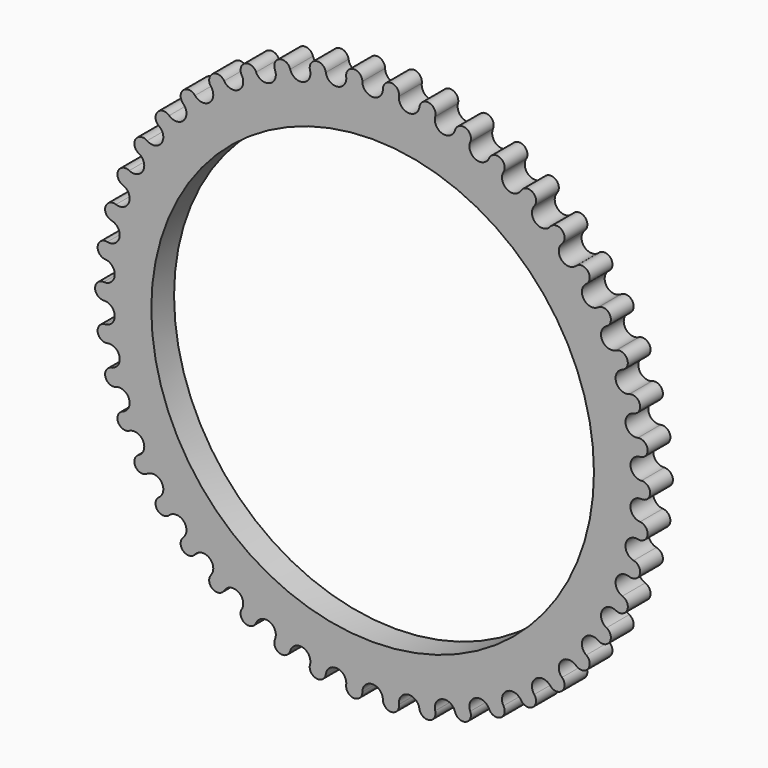
from build123d import *

# Parameters (mm, degrees)
F0_R     = 80
F0_R_2   = 70
F1_DEPTH = 9
F3_DEPTH = 25


with BuildPart() as f1:
    # F0 (on Front) → F1 (new body)
    with BuildSketch(Plane.XZ):
        with BuildLine():
            ThreePointArc((-3, -85), (0, -82), (3, -85))
            ThreePointArc((3, -85), (6.006204, -87.807599), (8.602107, -84.616805))
            ThreePointArc((8.602107, -84.616805), (11.165665, -81.236248), (14.546223, -83.799805))
            ThreePointArc((14.546223, -83.799805), (17.906729, -86.171909), (20.043974, -82.65736))
            ThreePointArc((20.043974, -82.65736), (22.123335, -78.959218), (25.821477, -81.038579))
            ThreePointArc((25.821477, -81.038579), (29.473685, -82.931), (31.112459, -79.158164))
            ThreePointArc((31.112459, -79.158164), (32.668889, -75.211327), (36.615727, -76.767757))
            ThreePointArc((36.615727, -76.767757), (40.491602, -78.145244), (41.601378, -74.184401))
            ThreePointArc((41.601378, -74.184401), (42.605884, -70.062391), (46.727894, -71.066898))
            ThreePointArc((46.727894, -71.066898), (50.755237, -71.903789), (51.315341, -67.828724))
            ThreePointArc((51.315341, -67.828724), (51.749211, -63.608326), (55.969609, -64.042196))
            ThreePointArc((55.969609, -64.042196), (60.073398, -64.322903), (60.073398, -60.209525))
            ThreePointArc((60.073398, -60.209525), (59.928549, -55.969358), (64.168716, -55.824509))
            ThreePointArc((64.168716, -55.824509), (68.272505, -55.543802), (67.7124, -51.468737))
            ThreePointArc((67.7124, -51.468737), (66.991531, -47.287786), (71.172482, -46.566918))
            ThreePointArc((71.172482, -46.566918), (75.199824, -45.730026), (74.090048, -41.769184))
            ThreePointArc((74.090048, -41.769184), (72.806588, -37.725333), (76.850439, -36.441873))
            ThreePointArc((76.850439, -36.441873), (80.726314, -35.064386), (79.08754, -31.29155))
            ThreePointArc((79.08754, -31.29155), (77.265396, -27.460128), (81.096817, -25.637984))
            ThreePointArc((81.096817, -25.637984), (84.749024, -23.745563), (82.611779, -20.231013))
            ThreePointArc((82.611779, -20.231013), (80.284895, -16.683393), (83.832515, -14.356509))
            ThreePointArc((83.832515, -14.356509), (87.193021, -11.984405), (84.597118, -8.793611))
            ThreePointArc((84.597118, -8.793611), (81.808839, -5.595878), (85.006573, -2.807599))
            ThreePointArc((85.006573, -2.807599), (88.012777, 0), (85.006573, 2.807599))
            ThreePointArc((85.006573, 2.807599), (81.808839, 5.595878), (84.597118, 8.793611))
            ThreePointArc((84.597118, 8.793611), (87.193021, 11.984405), (83.832515, 14.356509))
            ThreePointArc((83.832515, 14.356509), (80.284895, 16.683393), (82.611779, 20.231013))
            ThreePointArc((82.611779, 20.231013), (84.749024, 23.745563), (81.096817, 25.637984))
            ThreePointArc((81.096817, 25.637984), (77.265396, 27.460128), (79.08754, 31.29155))
            ThreePointArc((79.08754, 31.29155), (80.726314, 35.064386), (76.850439, 36.441873))
            ThreePointArc((76.850439, 36.441873), (72.806588, 37.725333), (74.090048, 41.769184))
            ThreePointArc((74.090048, 41.769184), (75.199824, 45.730026), (71.172482, 46.566918))
            ThreePointArc((71.172482, 46.566918), (66.991531, 47.287786), (67.7124, 51.468737))
            ThreePointArc((67.7124, 51.468737), (68.272505, 55.543802), (64.168716, 55.824509))
            ThreePointArc((64.168716, 55.824509), (59.928549, 55.969358), (60.073398, 60.209525))
            ThreePointArc((60.073398, 60.209525), (60.073398, 64.322903), (55.969609, 64.042196))
            ThreePointArc((55.969609, 64.042196), (51.749211, 63.608326), (51.315341, 67.828724))
            ThreePointArc((51.315341, 67.828724), (50.755237, 71.903789), (46.727894, 71.066898))
            ThreePointArc((46.727894, 71.066898), (42.605884, 70.062391), (41.601378, 74.184401))
            ThreePointArc((41.601378, 74.184401), (40.491602, 78.145244), (36.615727, 76.767757))
            ThreePointArc((36.615727, 76.767757), (32.668889, 75.211327), (31.112459, 79.158164))
            ThreePointArc((31.112459, 79.158164), (29.473685, 82.931), (25.821477, 81.038579))
            ThreePointArc((25.821477, 81.038579), (22.123335, 78.959218), (20.043974, 82.65736))
            ThreePointArc((20.043974, 82.65736), (17.906729, 86.171909), (14.546223, 83.799805))
            ThreePointArc((14.546223, 83.799805), (11.165665, 81.236248), (8.602107, 84.616805))
            ThreePointArc((8.602107, 84.616805), (6.006204, 87.807599), (3, 85))
            ThreePointArc((3, 85), (0, 82), (-3, 85))
            ThreePointArc((-3, 85), (-6.006204, 87.807599), (-8.602107, 84.616805))
            ThreePointArc((-8.602107, 84.616805), (-11.165665, 81.236248), (-14.546223, 83.799805))
            ThreePointArc((-14.546223, 83.799805), (-17.906729, 86.171909), (-20.043974, 82.65736))
            ThreePointArc((-20.043974, 82.65736), (-22.123335, 78.959218), (-25.821477, 81.038579))
            ThreePointArc((-25.821477, 81.038579), (-29.473685, 82.931), (-31.112459, 79.158164))
            ThreePointArc((-31.112459, 79.158164), (-32.668889, 75.211327), (-36.615727, 76.767757))
            ThreePointArc((-36.615727, 76.767757), (-40.491602, 78.145244), (-41.601378, 74.184401))
            ThreePointArc((-41.601378, 74.184401), (-42.605884, 70.062391), (-46.727894, 71.066898))
            ThreePointArc((-46.727894, 71.066898), (-50.755237, 71.903789), (-51.315341, 67.828724))
            ThreePointArc((-51.315341, 67.828724), (-51.749211, 63.608326), (-55.969609, 64.042196))
            ThreePointArc((-55.969609, 64.042196), (-60.073398, 64.322903), (-60.073398, 60.209525))
            ThreePointArc((-60.073398, 60.209525), (-59.928549, 55.969358), (-64.168716, 55.824509))
            ThreePointArc((-64.168716, 55.824509), (-68.272505, 55.543802), (-67.7124, 51.468737))
            ThreePointArc((-67.7124, 51.468737), (-66.991531, 47.287786), (-71.172482, 46.566918))
            ThreePointArc((-71.172482, 46.566918), (-75.199824, 45.730026), (-74.090048, 41.769184))
            ThreePointArc((-74.090048, 41.769184), (-72.806588, 37.725333), (-76.850439, 36.441873))
            ThreePointArc((-76.850439, 36.441873), (-80.726314, 35.064386), (-79.08754, 31.29155))
            ThreePointArc((-79.08754, 31.29155), (-77.265396, 27.460128), (-81.096817, 25.637984))
            ThreePointArc((-81.096817, 25.637984), (-84.749024, 23.745563), (-82.611779, 20.231013))
            ThreePointArc((-82.611779, 20.231013), (-80.284895, 16.683393), (-83.832515, 14.356509))
            ThreePointArc((-83.832515, 14.356509), (-87.193021, 11.984405), (-84.597118, 8.793611))
            ThreePointArc((-84.597118, 8.793611), (-81.808839, 5.595878), (-85.006573, 2.807599))
            ThreePointArc((-85.006573, 2.807599), (-88.012777, 0), (-85.006573, -2.807599))
            ThreePointArc((-85.006573, -2.807599), (-81.808839, -5.595878), (-84.597118, -8.793611))
            ThreePointArc((-84.597118, -8.793611), (-87.193021, -11.984405), (-83.832515, -14.356509))
            ThreePointArc((-83.832515, -14.356509), (-80.284895, -16.683393), (-82.611779, -20.231013))
            ThreePointArc((-82.611779, -20.231013), (-84.749024, -23.745563), (-81.096817, -25.637984))
            ThreePointArc((-81.096817, -25.637984), (-77.265396, -27.460128), (-79.08754, -31.29155))
            ThreePointArc((-79.08754, -31.29155), (-80.726314, -35.064386), (-76.850439, -36.441873))
            ThreePointArc((-76.850439, -36.441873), (-72.806588, -37.725333), (-74.090048, -41.769184))
            ThreePointArc((-74.090048, -41.769184), (-75.199824, -45.730026), (-71.172482, -46.566918))
            ThreePointArc((-71.172482, -46.566918), (-66.991531, -47.287786), (-67.7124, -51.468737))
            ThreePointArc((-67.7124, -51.468737), (-68.272505, -55.543802), (-64.168716, -55.824509))
            ThreePointArc((-64.168716, -55.824509), (-59.928549, -55.969358), (-60.073398, -60.209525))
            ThreePointArc((-60.073398, -60.209525), (-60.073398, -64.322903), (-55.969609, -64.042196))
            ThreePointArc((-55.969609, -64.042196), (-51.749211, -63.608326), (-51.315341, -67.828724))
            ThreePointArc((-51.315341, -67.828724), (-50.755237, -71.903789), (-46.727894, -71.066898))
            ThreePointArc((-46.727894, -71.066898), (-42.605884, -70.062391), (-41.601378, -74.184401))
            ThreePointArc((-41.601378, -74.184401), (-40.491602, -78.145244), (-36.615727, -76.767757))
            ThreePointArc((-36.615727, -76.767757), (-32.668889, -75.211327), (-31.112459, -79.158164))
            ThreePointArc((-31.112459, -79.158164), (-29.473685, -82.931), (-25.821477, -81.038579))
            ThreePointArc((-25.821477, -81.038579), (-22.123335, -78.959218), (-20.043974, -82.65736))
            ThreePointArc((-20.043974, -82.65736), (-17.906729, -86.171909), (-14.546223, -83.799805))
            ThreePointArc((-14.546223, -83.799805), (-11.165665, -81.236248), (-8.602107, -84.616805))
            ThreePointArc((-8.602107, -84.616805), (-6.006204, -87.807599), (-3, -85))
        make_face()
        Circle(F0_R, mode=Mode.SUBTRACT)
        Circle(F0_R)
        Circle(F0_R_2, mode=Mode.SUBTRACT)
    extrude(amount=F1_DEPTH)

    # F2 (on face) → F3 (cut)
    with BuildSketch(Plane.XZ.offset(9)):
        with BuildLine():
            ThreePointArc((-51.315341, 67.828724), (-51.749211, 63.608326), (-55.969609, 64.042196))
            ThreePointArc((-55.969609, 64.042196), (-60.073398, 64.322903), (-60.073398, 60.209525))
            ThreePointArc((-60.073398, 60.209525), (-59.928549, 55.969358), (-64.168716, 55.824509))
            ThreePointArc((-64.168716, 55.824509), (-68.272505, 55.543802), (-67.7124, 51.468737))
            ThreePointArc((-67.7124, 51.468737), (-66.991531, 47.287786), (-71.172482, 46.566918))
            ThreePointArc((-71.172482, 46.566918), (-75.199824, 45.730026), (-74.090048, 41.769184))
            ThreePointArc((-74.090048, 41.769184), (-72.806588, 37.725333), (-76.850439, 36.441873))
            ThreePointArc((-76.850439, 36.441873), (-80.726314, 35.064386), (-79.08754, 31.29155))
            ThreePointArc((-79.08754, 31.29155), (-77.265396, 27.460128), (-81.096817, 25.637984))
            ThreePointArc((-81.096817, 25.637984), (-84.749024, 23.745563), (-82.611779, 20.231013))
            ThreePointArc((-82.611779, 20.231013), (-80.284895, 16.683393), (-83.832515, 14.356509))
            ThreePointArc((-83.832515, 14.356509), (-87.193021, 11.984405), (-84.597118, 8.793611))
            ThreePointArc((-84.597118, 8.793611), (-81.808839, 5.595878), (-85.006573, 2.807599))
            ThreePointArc((-85.006573, 2.807599), (-88.012777, 0), (-85.006573, -2.807599))
            ThreePointArc((-85.006573, -2.807599), (-81.808839, -5.595878), (-84.597118, -8.793611))
            ThreePointArc((-84.597118, -8.793611), (-87.193021, -11.984405), (-83.832515, -14.356509))
            ThreePointArc((-83.832515, -14.356509), (-80.284895, -16.683393), (-82.611779, -20.231013))
            ThreePointArc((-82.611779, -20.231013), (-84.749024, -23.745563), (-81.096817, -25.637984))
            ThreePointArc((-81.096817, -25.637984), (-77.265396, -27.460128), (-79.08754, -31.29155))
            ThreePointArc((-79.08754, -31.29155), (-80.726314, -35.064386), (-76.850439, -36.441873))
            ThreePointArc((-76.850439, -36.441873), (-72.806588, -37.725333), (-74.090048, -41.769184))
            ThreePointArc((-74.090048, -41.769184), (-75.199824, -45.730026), (-71.172482, -46.566918))
            ThreePointArc((-71.172482, -46.566918), (-66.991531, -47.287786), (-67.7124, -51.468737))
            ThreePointArc((-67.7124, -51.468737), (-68.272505, -55.543802), (-64.168716, -55.824509))
            ThreePointArc((-64.168716, -55.824509), (-59.928549, -55.969358), (-60.073398, -60.209525))
            ThreePointArc((-60.073398, -60.209525), (-60.073398, -64.322903), (-55.969609, -64.042196))
            ThreePointArc((-55.969609, -64.042196), (-51.749211, -63.608326), (-51.315341, -67.828724))
            ThreePointArc((-51.315341, -67.828724), (-50.755237, -71.903789), (-46.727894, -71.066898))
            ThreePointArc((-46.727894, -71.066898), (-42.605884, -70.062391), (-41.601378, -74.184401))
            ThreePointArc((-41.601378, -74.184401), (-40.491602, -78.145244), (-36.615727, -76.767757))
            ThreePointArc((-36.615727, -76.767757), (-32.668889, -75.211327), (-31.112459, -79.158164))
            ThreePointArc((-31.112459, -79.158164), (-29.473685, -82.931), (-25.821477, -81.038579))
            ThreePointArc((-25.821477, -81.038579), (-22.123335, -78.959218), (-20.043974, -82.65736))
            ThreePointArc((-20.043974, -82.65736), (-17.906729, -86.171909), (-14.546223, -83.799805))
            ThreePointArc((-14.546223, -83.799805), (-11.165665, -81.236248), (-8.602107, -84.616805))
            ThreePointArc((-8.602107, -84.616805), (-6.006204, -87.807599), (-3, -85))
            ThreePointArc((-3, -85), (0, -82), (3, -85))
            ThreePointArc((3, -85), (6.006204, -87.807599), (8.602107, -84.616805))
            ThreePointArc((8.602107, -84.616805), (11.165665, -81.236248), (14.546223, -83.799805))
            ThreePointArc((14.546223, -83.799805), (17.906729, -86.171909), (20.043974, -82.65736))
            ThreePointArc((20.043974, -82.65736), (22.123335, -78.959218), (25.821477, -81.038579))
            ThreePointArc((25.821477, -81.038579), (29.473685, -82.931), (31.112459, -79.158164))
            ThreePointArc((31.112459, -79.158164), (32.668889, -75.211327), (36.615727, -76.767757))
            ThreePointArc((36.615727, -76.767757), (40.491602, -78.145244), (41.601378, -74.184401))
            ThreePointArc((41.601378, -74.184401), (42.605884, -70.062391), (46.727894, -71.066898))
            ThreePointArc((46.727894, -71.066898), (50.755237, -71.903789), (51.315341, -67.828724))
            ThreePointArc((51.315341, -67.828724), (51.749211, -63.608326), (55.969609, -64.042196))
            ThreePointArc((55.969609, -64.042196), (60.073398, -64.322903), (60.073398, -60.209525))
            ThreePointArc((60.073398, -60.209525), (59.928549, -55.969358), (64.168716, -55.824509))
            ThreePointArc((64.168716, -55.824509), (68.272505, -55.543802), (67.7124, -51.468737))
            ThreePointArc((67.7124, -51.468737), (66.991531, -47.287786), (71.172482, -46.566918))
            ThreePointArc((71.172482, -46.566918), (75.199824, -45.730026), (74.090048, -41.769184))
            ThreePointArc((74.090048, -41.769184), (72.806588, -37.725333), (76.850439, -36.441873))
            ThreePointArc((76.850439, -36.441873), (80.726314, -35.064386), (79.08754, -31.29155))
            ThreePointArc((79.08754, -31.29155), (77.265396, -27.460128), (81.096817, -25.637984))
            ThreePointArc((81.096817, -25.637984), (84.749024, -23.745563), (82.611779, -20.231013))
            ThreePointArc((82.611779, -20.231013), (80.284895, -16.683393), (83.832515, -14.356509))
            ThreePointArc((83.832515, -14.356509), (87.193021, -11.984405), (84.597118, -8.793611))
            ThreePointArc((84.597118, -8.793611), (81.808839, -5.595878), (85.006573, -2.807599))
            ThreePointArc((85.006573, -2.807599), (88.012777, 0), (85.006573, 2.807599))
            ThreePointArc((85.006573, 2.807599), (81.808839, 5.595878), (84.597118, 8.793611))
            ThreePointArc((84.597118, 8.793611), (87.193021, 11.984405), (83.832515, 14.356509))
            ThreePointArc((83.832515, 14.356509), (80.284895, 16.683393), (82.611779, 20.231013))
            ThreePointArc((82.611779, 20.231013), (84.749024, 23.745563), (81.096817, 25.637984))
            ThreePointArc((81.096817, 25.637984), (77.265396, 27.460128), (79.08754, 31.29155))
            ThreePointArc((79.08754, 31.29155), (80.726314, 35.064386), (76.850439, 36.441873))
            ThreePointArc((76.850439, 36.441873), (72.806588, 37.725333), (74.090048, 41.769184))
            ThreePointArc((74.090048, 41.769184), (75.199824, 45.730026), (71.172482, 46.566918))
            ThreePointArc((71.172482, 46.566918), (66.991531, 47.287786), (67.7124, 51.468737))
            ThreePointArc((67.7124, 51.468737), (68.272505, 55.543802), (64.168716, 55.824509))
            ThreePointArc((64.168716, 55.824509), (59.928549, 55.969358), (60.073398, 60.209525))
            ThreePointArc((60.073398, 60.209525), (60.073398, 64.322903), (55.969609, 64.042196))
            ThreePointArc((55.969609, 64.042196), (51.749211, 63.608326), (51.315341, 67.828724))
            ThreePointArc((51.315341, 67.828724), (50.755237, 71.903789), (46.727894, 71.066898))
            ThreePointArc((46.727894, 71.066898), (42.605884, 70.062391), (41.601378, 74.184401))
            ThreePointArc((41.601378, 74.184401), (40.491602, 78.145244), (36.615727, 76.767757))
            ThreePointArc((36.615727, 76.767757), (32.668889, 75.211327), (31.112459, 79.158164))
            ThreePointArc((31.112459, 79.158164), (29.473685, 82.931), (25.821477, 81.038579))
            ThreePointArc((25.821477, 81.038579), (22.123335, 78.959218), (20.043974, 82.65736))
            ThreePointArc((20.043974, 82.65736), (17.906729, 86.171909), (14.546223, 83.799805))
            ThreePointArc((14.546223, 83.799805), (11.165665, 81.236248), (8.602107, 84.616805))
            ThreePointArc((8.602107, 84.616805), (6.006204, 87.807599), (3, 85))
            ThreePointArc((3, 85), (0, 82), (-3, 85))
            ThreePointArc((-3, 85), (-6.006204, 87.807599), (-8.602107, 84.616805))
            ThreePointArc((-8.602107, 84.616805), (-11.165665, 81.236248), (-14.546223, 83.799805))
            ThreePointArc((-14.546223, 83.799805), (-17.906729, 86.171909), (-20.043974, 82.65736))
            ThreePointArc((-20.043974, 82.65736), (-22.123335, 78.959218), (-25.821477, 81.038579))
            ThreePointArc((-25.821477, 81.038579), (-29.473685, 82.931), (-31.112459, 79.158164))
            ThreePointArc((-31.112459, 79.158164), (-32.668889, 75.211327), (-36.615727, 76.767757))
            ThreePointArc((-36.615727, 76.767757), (-40.491602, 78.145244), (-41.601378, 74.184401))
            ThreePointArc((-41.601378, 74.184401), (-42.605884, 70.062391), (-46.727894, 71.066898))
            ThreePointArc((-46.727894, 71.066898), (-50.755237, 71.903789), (-51.315341, 67.828724))
        make_face()
        with BuildLine():
            ThreePointArc((36.845032, 76.668156), (40.376584, 77.92327), (41.38777, 74.314299))
            ThreePointArc((41.38777, 74.314299), (42.475986, 69.848784), (46.941501, 70.937))
            ThreePointArc((46.941501, 70.937), (50.611065, 71.699544), (51.121411, 67.986497))
            ThreePointArc((51.121411, 67.986497), (51.591438, 63.414396), (56.163539, 63.884422))
            ThreePointArc((56.163539, 63.884422), (59.902757, 64.140192), (59.902757, 60.392236))
            ThreePointArc((59.902757, 60.392236), (59.745838, 55.798717), (64.339357, 55.641798))
            ThreePointArc((64.339357, 55.641798), (68.078575, 55.386029), (67.568228, 51.672982))
            ThreePointArc((67.568228, 51.672982), (66.787286, 47.143615), (71.316654, 46.362673))
            ThreePointArc((71.316654, 46.362673), (74.986217, 45.600129), (73.975031, 41.991158))
            ThreePointArc((73.975031, 41.991158), (72.584614, 37.610315), (76.965456, 36.219899))
            ThreePointArc((76.965456, 36.219899), (80.497008, 34.964785), (79.003819, 31.527118))
            ThreePointArc((79.003819, 31.527118), (77.029828, 27.376407), (81.180538, 25.402416))
            ThreePointArc((81.180538, 25.402416), (84.508292, 23.678113), (82.560915, 20.475787))
            ThreePointArc((82.560915, 20.475787), (80.040121, 16.632528), (83.88338, 14.111735))
            ThreePointArc((83.88338, 14.111735), (86.945347, 11.950363), (84.580057, 9.043032))
            ThreePointArc((84.580057, 9.043032), (81.559419, 5.578817), (85.023633, 2.558179))
            ThreePointArc((85.023633, 2.558179), (87.762774, 0), (85.023633, -2.558179))
            ThreePointArc((85.023633, -2.558179), (81.559419, -5.578817), (84.580057, -9.043032))
            ThreePointArc((84.580057, -9.043032), (86.945347, -11.950363), (83.88338, -14.111735))
            ThreePointArc((83.88338, -14.111735), (80.040121, -16.632528), (82.560915, -20.475787))
            ThreePointArc((82.560915, -20.475787), (84.508292, -23.678113), (81.180538, -25.402416))
            ThreePointArc((81.180538, -25.402416), (77.029828, -27.376407), (79.003819, -31.527118))
            ThreePointArc((79.003819, -31.527118), (80.497008, -34.964785), (76.965456, -36.219899))
            ThreePointArc((76.965456, -36.219899), (72.584614, -37.610315), (73.975031, -41.991158))
            ThreePointArc((73.975031, -41.991158), (74.986217, -45.600129), (71.316654, -46.362673))
            ThreePointArc((71.316654, -46.362673), (66.787286, -47.143615), (67.568228, -51.672982))
            ThreePointArc((67.568228, -51.672982), (68.078575, -55.386029), (64.339357, -55.641798))
            ThreePointArc((64.339357, -55.641798), (59.745838, -55.798717), (59.902757, -60.392236))
            ThreePointArc((59.902757, -60.392236), (59.902757, -64.140192), (56.163539, -63.884422))
            ThreePointArc((56.163539, -63.884422), (51.591438, -63.414396), (51.121411, -67.986497))
            ThreePointArc((51.121411, -67.986497), (50.611065, -71.699544), (46.941501, -70.937))
            ThreePointArc((46.941501, -70.937), (42.475986, -69.848784), (41.38777, -74.314299))
            ThreePointArc((41.38777, -74.314299), (40.376584, -77.92327), (36.845032, -76.668156))
            ThreePointArc((36.845032, -76.668156), (32.569288, -74.982021), (30.883153, -79.257765))
            ThreePointArc((30.883153, -79.257765), (29.389964, -82.695432), (26.06221, -80.971129))
            ThreePointArc((26.06221, -80.971129), (22.055885, -78.718485), (19.803242, -82.72481))
            ThreePointArc((19.803242, -82.72481), (17.855864, -85.927136), (14.793897, -83.765763))
            ThreePointArc((14.793897, -83.765763), (11.131623, -80.988573), (8.354433, -84.650847))
            ThreePointArc((8.354433, -84.650847), (5.989144, -87.558179), (3.250003, -85))
            ThreePointArc((3.250003, -85), (0, -81.749997), (-3.250003, -85))
            ThreePointArc((-3.250003, -85), (-5.989144, -87.558179), (-8.354433, -84.650847))
            ThreePointArc((-8.354433, -84.650847), (-11.131623, -80.988573), (-14.793897, -83.765763))
            ThreePointArc((-14.793897, -83.765763), (-17.855864, -85.927136), (-19.803242, -82.72481))
            ThreePointArc((-19.803242, -82.72481), (-22.055885, -78.718485), (-26.06221, -80.971129))
            ThreePointArc((-26.06221, -80.971129), (-29.389964, -82.695432), (-30.883153, -79.257765))
            ThreePointArc((-30.883153, -79.257765), (-32.569288, -74.982021), (-36.845032, -76.668156))
            ThreePointArc((-36.845032, -76.668156), (-40.376584, -77.92327), (-41.38777, -74.314299))
            ThreePointArc((-41.38777, -74.314299), (-42.475986, -69.848784), (-46.941501, -70.937))
            ThreePointArc((-46.941501, -70.937), (-50.611065, -71.699544), (-51.121411, -67.986497))
            ThreePointArc((-51.121411, -67.986497), (-51.591438, -63.414396), (-56.163539, -63.884422))
            ThreePointArc((-56.163539, -63.884422), (-59.902757, -64.140192), (-59.902757, -60.392236))
            ThreePointArc((-59.902757, -60.392236), (-59.745838, -55.798717), (-64.339357, -55.641798))
            ThreePointArc((-64.339357, -55.641798), (-68.078575, -55.386029), (-67.568228, -51.672982))
            ThreePointArc((-67.568228, -51.672982), (-66.787286, -47.143615), (-71.316654, -46.362673))
            ThreePointArc((-71.316654, -46.362673), (-74.986217, -45.600129), (-73.975031, -41.991158))
            ThreePointArc((-73.975031, -41.991158), (-72.584614, -37.610315), (-76.965456, -36.219899))
            ThreePointArc((-76.965456, -36.219899), (-80.497008, -34.964785), (-79.003819, -31.527118))
            ThreePointArc((-79.003819, -31.527118), (-77.029828, -27.376407), (-81.180538, -25.402416))
            ThreePointArc((-81.180538, -25.402416), (-84.508292, -23.678113), (-82.560915, -20.475787))
            ThreePointArc((-82.560915, -20.475787), (-80.040121, -16.632528), (-83.88338, -14.111735))
            ThreePointArc((-83.88338, -14.111735), (-86.945347, -11.950363), (-84.580057, -9.043032))
            ThreePointArc((-84.580057, -9.043032), (-81.559419, -5.578817), (-85.023633, -2.558179))
            ThreePointArc((-85.023633, -2.558179), (-87.762774, 0), (-85.023633, 2.558179))
            ThreePointArc((-85.023633, 2.558179), (-81.559419, 5.578817), (-84.580057, 9.043032))
            ThreePointArc((-84.580057, 9.043032), (-86.945347, 11.950363), (-83.88338, 14.111735))
            ThreePointArc((-83.88338, 14.111735), (-80.040121, 16.632528), (-82.560915, 20.475787))
            ThreePointArc((-82.560915, 20.475787), (-84.508292, 23.678113), (-81.180538, 25.402416))
            ThreePointArc((-81.180538, 25.402416), (-77.029828, 27.376407), (-79.003819, 31.527118))
            ThreePointArc((-79.003819, 31.527118), (-80.497008, 34.964785), (-76.965456, 36.219899))
            ThreePointArc((-76.965456, 36.219899), (-72.584614, 37.610315), (-73.975031, 41.991158))
            ThreePointArc((-73.975031, 41.991158), (-74.986217, 45.600129), (-71.316654, 46.362673))
            ThreePointArc((-71.316654, 46.362673), (-66.787286, 47.143615), (-67.568228, 51.672982))
            ThreePointArc((-67.568228, 51.672982), (-68.078575, 55.386029), (-64.339357, 55.641798))
            ThreePointArc((-64.339357, 55.641798), (-59.745838, 55.798717), (-59.902757, 60.392236))
            ThreePointArc((-59.902757, 60.392236), (-59.902757, 64.140192), (-56.163539, 63.884422))
            ThreePointArc((-56.163539, 63.884422), (-51.591438, 63.414396), (-51.121411, 67.986497))
            ThreePointArc((-51.121411, 67.986497), (-50.611065, 71.699544), (-46.941501, 70.937))
            ThreePointArc((-46.941501, 70.937), (-42.475986, 69.848784), (-41.38777, 74.314299))
            ThreePointArc((-41.38777, 74.314299), (-40.376584, 77.92327), (-36.845032, 76.668156))
            ThreePointArc((-36.845032, 76.668156), (-32.569288, 74.982021), (-30.883153, 79.257765))
            ThreePointArc((-30.883153, 79.257765), (-29.389964, 82.695432), (-26.06221, 80.971129))
            ThreePointArc((-26.06221, 80.971129), (-22.055885, 78.718485), (-19.803242, 82.72481))
            ThreePointArc((-19.803242, 82.72481), (-17.855864, 85.927136), (-14.793897, 83.765763))
            ThreePointArc((-14.793897, 83.765763), (-11.131623, 80.988573), (-8.354433, 84.650847))
            ThreePointArc((-8.354433, 84.650847), (-5.989144, 87.558179), (-3.250003, 85))
            ThreePointArc((-3.250003, 85), (0, 81.749997), (3.250003, 85))
            ThreePointArc((3.250003, 85), (5.989144, 87.558179), (8.354433, 84.650847))
            ThreePointArc((8.354433, 84.650847), (11.131623, 80.988573), (14.793897, 83.765763))
            ThreePointArc((14.793897, 83.765763), (17.855864, 85.927136), (19.803242, 82.72481))
            ThreePointArc((19.803242, 82.72481), (22.055885, 78.718485), (26.06221, 80.971129))
            ThreePointArc((26.06221, 80.971129), (29.389964, 82.695432), (30.883153, 79.257765))
            ThreePointArc((30.883153, 79.257765), (32.569288, 74.982021), (36.845032, 76.668156))
        make_face(mode=Mode.SUBTRACT)
    extrude(amount=-F3_DEPTH, mode=Mode.SUBTRACT)


solid = f1.part
